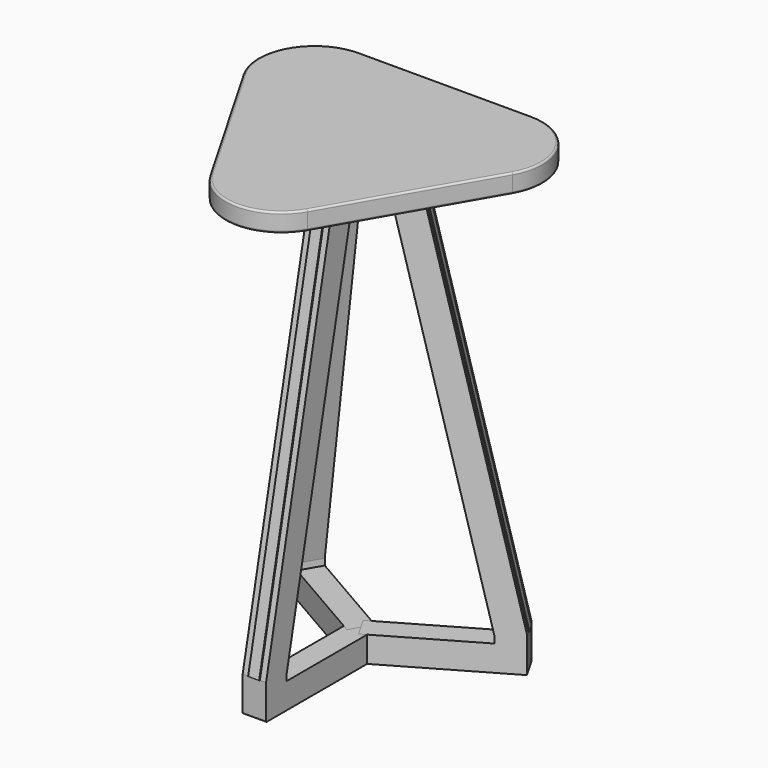
from build123d import *

# Parameters (mm, degrees)
F1_DEPTH = 12.7
F2_R     = 76.2
F3_R     = 2.54
F5_DEPTH = 15.875
F6_W     = 14.9856369026
F6_H     = 564.4772203636
F7_DEPTH = 1.27
F9_COUNT = 3


with BuildPart() as f1:
    # F0 (on Top) → F1 (new body, symmetric)
    with BuildSketch(Plane.XY):
        Polygon((-248.7997215401, 143.6445862055), (0, -287.289172411), (248.7997215401, 143.6445862055), align=None)
    extrude(amount=F1_DEPTH, both=True)

    # F2
    f2_edges = [f1.edges().sort_by_distance(p)[0] for p in [
        (0, -287.289172, 0),
        (248.799722, 143.644586, 0),
        (-248.799722, 143.644586, 0),
    ]]
    fillet(f2_edges, radius=F2_R)

    # F3
    f3_edges = [f1.edges().sort_by_distance(p)[0] for p in [
        (0, 143.644586, 12.7),
        (182.808586, 105.544586, 12.7),
        (-182.808586, 105.544586, 12.7),
        (124.399861, -71.822293, 12.7),
        (-124.399861, -71.822293, 12.7),
        (0, -211.089172, 12.7),
        (0, 143.644586, -12.7),
        (182.808586, 105.544586, -12.7),
        (-182.808586, 105.544586, -12.7),
        (124.399861, -71.822293, -12.7),
        (-124.399861, -71.822293, -12.7),
        (0, -211.089172, -12.7),
    ]]
    fillet(f3_edges, radius=F3_R)


with BuildPart() as f5:
    # F4 (on Right) → F5 (new body, symmetric)
    with BuildSketch(Plane.YZ):
        with BuildLine():
            Line((-179.6303949165, -613.3513297272), (0, -613.3513297272))
            Line((0, -613.3513297272), (0, -578.3198531411))
            Line((0, -578.3198531411), (-145.8689183305, -578.3198531411))
            Line((-145.8689183305, -578.3198531411), (-145.8689183305, -569.6129530074))
            Line((-145.8689183305, -569.6129530074), (-35.0314765861, -54.5474058636))
            Line((-35.0314765861, -54.5474058636), (0, -54.5474058636))
            Line((0, -54.5474058636), (0, -14.0417423099))
            Line((0, -14.0417423099), (-62.1484262955, -14.0417423099))
            Line((-62.1484262955, -14.0417423099), (-180.9003949165, -565.8863782883))
            Line((-180.9003949165, -565.8863782883), (-180.9003949165, -612.0813297272))
            ThreePointArc((-180.9003949165, -612.0813297272), (-180.5284205286, -612.9793553393), (-179.6303949165, -613.3513297272))
        make_face()
    extrude(amount=F5_DEPTH, both=True)

    # F6 (on face) → F7 (join, symmetric)
    with BuildSketch(Plane(origin=(0, -56.5099559062, 12.1604308043), x_dir=(1, 0, 0), z_dir=(0, -0.9776207366, 0.21037513))):
        with Locations((0, -309.0405919041)):
            Rectangle(F6_W, F6_H)
    extrude(amount=F7_DEPTH, both=True)


with BuildPart() as f9_1:
    # F9: instance of F5
    add(f5.part.rotate(Axis((0, 0, -34.2945740868), (0, 0, -1)), 1 * 360 / F9_COUNT))


with BuildPart() as f9_2:
    # F9: instance of F5
    add(f5.part.rotate(Axis((0, 0, -34.2945740868), (0, 0, -1)), 2 * 360 / F9_COUNT))


solid = Compound([f1.part, f5.part, f9_1.part, f9_2.part])
